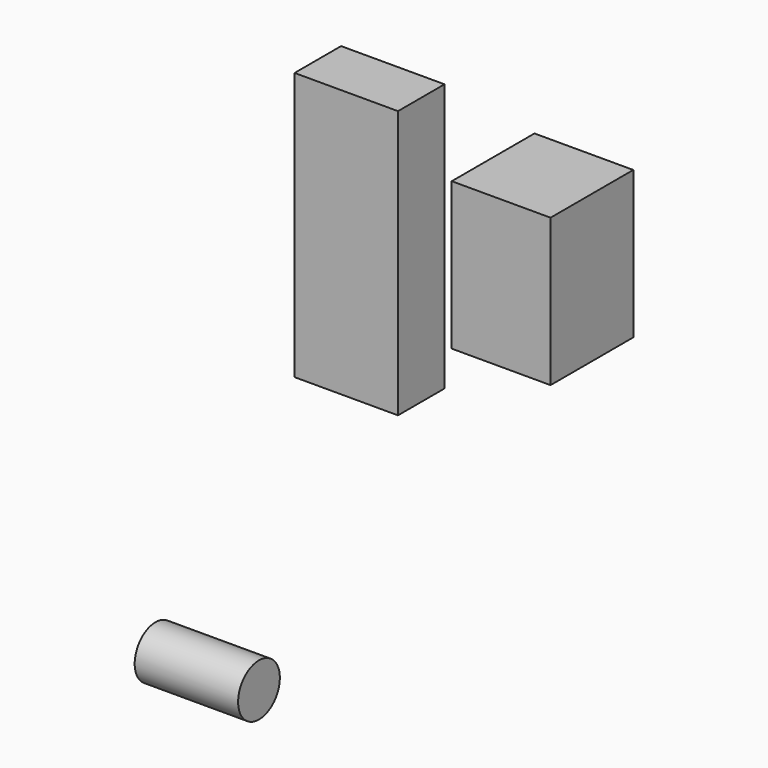
from build123d import *

# Parameters (mm, degrees)
F0_W     = 23.8864533603
F0_H     = 35.6401074678
F1_DEPTH = 25
F3_W     = 14.0588618815
F3_H     = 64.7447444499
F4_DEPTH = 25
F5_R     = 6.3081740662
F6_DEPTH = 25


with BuildPart() as f1:
    # F0 (on Front) → F1 (new body)
    with BuildSketch(Plane.XZ):
        with Locations((-22.6761456579, 28.7634721026)):
            Rectangle(F0_W, F0_H)
    extrude(amount=F1_DEPTH)


with BuildPart() as f1_1:
    # F2: moved
    add(f1.part.moved(Location((53.6, 0, 0))))


with BuildPart() as f4:
    # F3 (on Right) → F4 (new body)
    with BuildSketch(Plane.YZ):
        with Locations((-41.7353641242, 40.7371576875)):
            Rectangle(F3_W, F3_H)
    extrude(amount=F4_DEPTH)


with BuildPart() as f6:
    # F5 (on Right) → F6 (new body)
    with BuildSketch(Plane.YZ):
        with Locations((-90.7730013132, -32.9917743802)):
            Circle(F5_R)
    extrude(amount=F6_DEPTH)


solid = Compound([f1_1.part, f4.part, f6.part])
